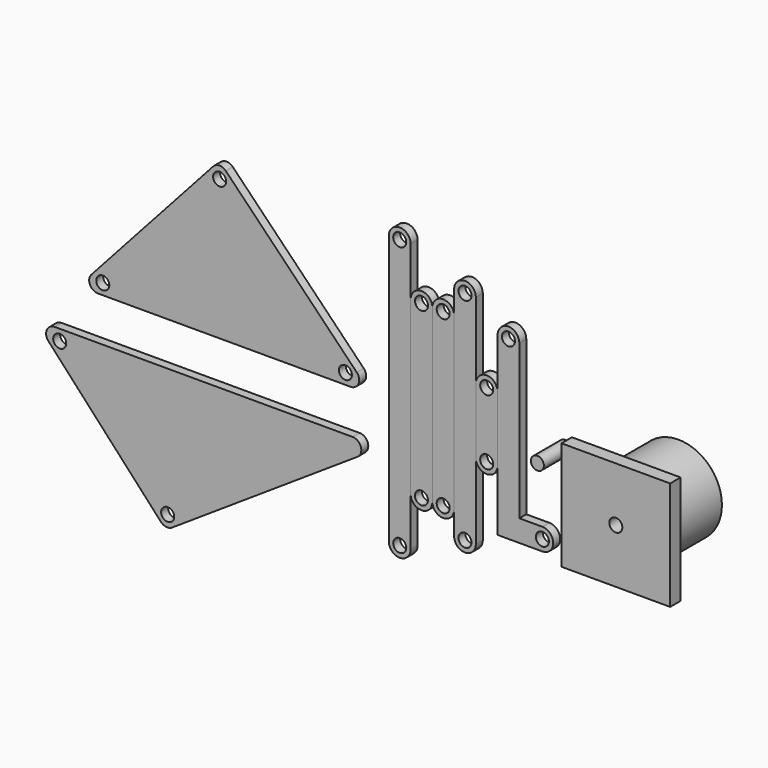
from build123d import *

# Parameters (mm, degrees)
F0_R      = 1.5
F1_DEPTH  = 2
F2_R      = 1.5
F3_DEPTH  = 2
F4_R      = 1.5
F5_DEPTH  = 2
F6_R      = 1.5
F7_DEPTH  = 2
F8_R      = 1.5
F9_DEPTH  = 2
F10_R     = 1.5
F11_DEPTH = 2
F12_R     = 2
F13_R     = 1.5
F14_DEPTH = 2
F15_R     = 2
F16_R     = 1.5
F17_DEPTH = 2
F18_R     = 1.5
F19_DEPTH = 6
F20_R     = 10
F21_DEPTH = 15
F22_W     = 25
F22_H     = 25
F22_R     = 10
F23_DEPTH = 3
F24_R     = 1.5
F25_DEPTH = 4
F26_R     = 1.5
F27_DEPTH = 8


with BuildPart() as f1:
    # F0 (on Front) → F1 (new body)
    with BuildSketch(Plane.XZ):
        with BuildLine():
            ThreePointArc((5, 7.5), (2.5, 10), (0, 7.5))
            Line((0, 7.5), (0, -7.5))
            ThreePointArc((0, -7.5), (2.5, -10), (5, -7.5))
            Line((5, -7.5), (5, 7.5))
        make_face()
        with Locations((2.5, -7.5)):
            Circle(F0_R, mode=Mode.SUBTRACT)
        with Locations((2.5, 7.5)):
            Circle(F0_R, mode=Mode.SUBTRACT)
    extrude(amount=F1_DEPTH)


with BuildPart() as f3:
    # F2 (on Front) → F3 (new body)
    with BuildSketch(Plane.XZ):
        with BuildLine():
            Line((0, -25), (0, 25))
            ThreePointArc((0, 25), (-2.5, 27.5), (-5, 25))
            Line((-5, 25), (-5, -25))
            ThreePointArc((-5, -25), (-2.5, -27.5), (0, -25))
        make_face()
        with Locations((-2.5, -25)):
            Circle(F2_R, mode=Mode.SUBTRACT)
        with Locations((-2.5, 25)):
            Circle(F2_R, mode=Mode.SUBTRACT)
    extrude(amount=F3_DEPTH)


with BuildPart() as f5:
    # F4 (on Front) → F5 (new body)
    with BuildSketch(Plane.XZ):
        with BuildLine():
            Line((-5, -19.65), (-5, 19.65))
            ThreePointArc((-5, 19.65), (-7.5, 22.15), (-10, 19.65))
            Line((-10, 19.65), (-10, -19.65))
            ThreePointArc((-10, -19.65), (-7.5, -22.15), (-5, -19.65))
        make_face()
        with Locations((-7.5, -19.65)):
            Circle(F4_R, mode=Mode.SUBTRACT)
        with Locations((-7.5, 19.65)):
            Circle(F4_R, mode=Mode.SUBTRACT)
    extrude(amount=F5_DEPTH)


with BuildPart() as f7:
    # F6 (on Front) → F7 (new body)
    with BuildSketch(Plane.XZ):
        with BuildLine():
            Line((-10, -19.7), (-10, 19.7))
            ThreePointArc((-10, 19.7), (-12.5, 22.2), (-15, 19.7))
            Line((-15, 19.7), (-15, -19.7))
            ThreePointArc((-15, -19.7), (-12.5, -22.2), (-10, -19.7))
        make_face()
        with Locations((-12.5, -19.7)):
            Circle(F6_R, mode=Mode.SUBTRACT)
        with Locations((-12.5, 19.7)):
            Circle(F6_R, mode=Mode.SUBTRACT)
    extrude(amount=F7_DEPTH)


with BuildPart() as f9:
    # F8 (on Front) → F9 (new body)
    with BuildSketch(Plane.XZ):
        with BuildLine():
            ThreePointArc((-15, 30.95), (-17.5, 33.45), (-20, 30.95))
            Line((-20, 30.95), (-20, -30.95))
            ThreePointArc((-20, -30.95), (-17.5, -33.45), (-15, -30.95))
            Line((-15, -30.95), (-15, 30.95))
        make_face()
        with Locations((-17.5, -30.95)):
            Circle(F8_R, mode=Mode.SUBTRACT)
        with Locations((-17.5, 30.95)):
            Circle(F8_R, mode=Mode.SUBTRACT)
    extrude(amount=F9_DEPTH)


with BuildPart() as f11:
    # F10 (on Front) → F11 (new body)
    with BuildSketch(Plane.XZ):
        Polygon((-58.990604, 33.416158), (-91.426327, -2.5), (-24.084083, -2.5), align=None)
        with Locations((-85.8, 0)):
            Circle(F10_R, mode=Mode.SUBTRACT)
        with Locations((-30, 0)):
            Circle(F10_R, mode=Mode.SUBTRACT)
        with Locations((-58.923656, 29.760244)):
            Circle(F10_R, mode=Mode.SUBTRACT)
    extrude(amount=F11_DEPTH)

    # F12
    f12_edges = [f11.edges().sort_by_distance(p)[0] for p in [
        (-91.426327, -1, -2.5),
        (-24.084083, -1, -2.5),
        (-58.990604, -1, 33.416158),
    ]]
    fillet(f12_edges, radius=F12_R)


with BuildPart() as f14:
    # F13 (on Front) → F14 (new body)
    with BuildSketch(Plane.XZ):
        Polygon((-21.686869, -12.5), (-101.391297, -12.5), (-71.271208, -45.2882), align=None)
        with Locations((-70.872146, -42.027165)):
            Circle(F13_R, mode=Mode.SUBTRACT)
        with Locations((-95.7, -15)):
            Circle(F13_R, mode=Mode.SUBTRACT)
    extrude(amount=F14_DEPTH)

    # F15
    f15_edges = [f14.edges().sort_by_distance(p)[0] for p in [
        (-101.391297, -1, -12.5),
        (-71.271208, -1, -45.2882),
        (-21.686869, -1, -12.5),
    ]]
    fillet(f15_edges, radius=F15_R)


with BuildPart() as f17:
    # F16 (on Front) → F17 (new body)
    with BuildSketch(Plane.XZ):
        with BuildLine():
            Line((10, -16.5), (10, 19))
            ThreePointArc((10, 19), (7.5, 21.5), (5, 19))
            Line((5, 19), (5, -21.5))
            Line((5, -21.5), (15.3, -21.5))
            ThreePointArc((15.3, -21.5), (17.8, -19), (15.3, -16.5))
            Line((15.3, -16.5), (10, -16.5))
        make_face()
        with Locations((15.3, -19)):
            Circle(F16_R, mode=Mode.SUBTRACT)
        with Locations((7.5, 19)):
            Circle(F16_R, mode=Mode.SUBTRACT)
    extrude(amount=F17_DEPTH)


with BuildPart() as f19:
    # F18 (on Front) → F19 (new body)
    with BuildSketch(Plane.XZ):
        with Locations((24.949552, 0)):
            Circle(F18_R)
    extrude(amount=F19_DEPTH)


with BuildPart() as f21:
    # F20 (on Front) → F21 (new body)
    with BuildSketch(Plane.XZ):
        with Locations((45, 0)):
            Circle(F20_R)
    extrude(amount=F21_DEPTH)

    # F22 (on face) → F23 (join)
    with BuildSketch(Plane.XZ.offset(15)):
        with Locations((45, 0)):
            Rectangle(F22_W, F22_H)
        with Locations((45, 0)):
            Circle(F22_R, mode=Mode.SUBTRACT)
        with Locations((45, 0)):
            Circle(F22_R)
    extrude(amount=F23_DEPTH)

    # F24 (on face) → F25 (cut)
    with BuildSketch(Plane.XZ.offset(18)):
        with Locations((45, 0)):
            Circle(F24_R)
    extrude(amount=-F25_DEPTH, mode=Mode.SUBTRACT)


with BuildPart() as f27:
    # F26 (on Front) → F27 (new body)
    with BuildSketch(Plane.XZ):
        with Locations((18.949552, 0)):
            Circle(F26_R)
    extrude(amount=F27_DEPTH)


solid = Compound([f1.part, f3.part, f5.part, f7.part, f9.part, f11.part, f14.part, f17.part, f19.part, f21.part, f27.part])
